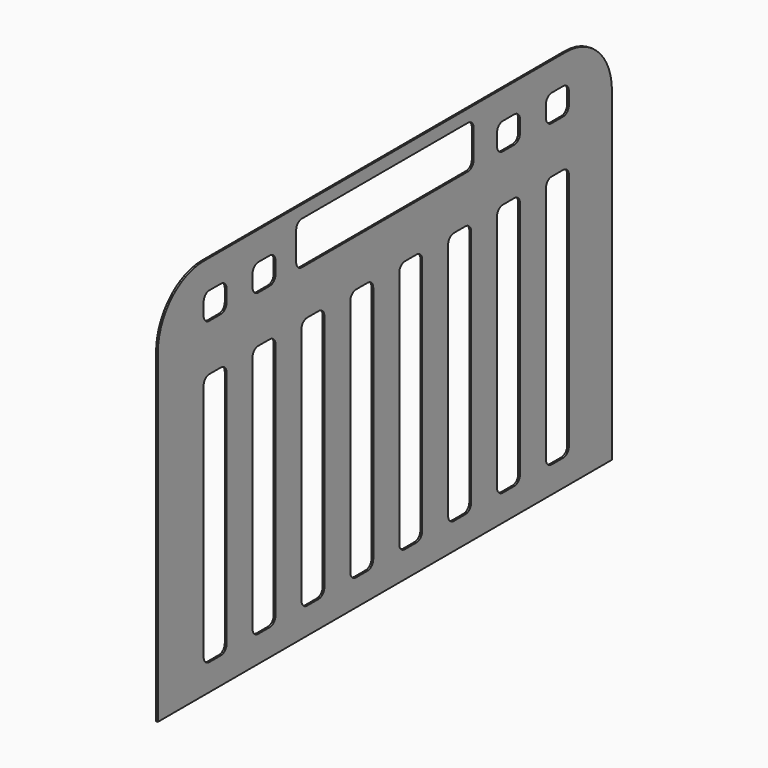
from build123d import *

# Parameters (mm, degrees)
F1_DEPTH = 3.175


with BuildPart() as f1:
    # F0 (on Right) → F1 (new body)
    with BuildSketch(Plane.YZ):
        with BuildLine():
            ThreePointArc((-419.804555, 263.773604), (-491.646604, 234.015653), (-521.404555, 162.173604))
            Line((-521.404555, 162.173604), (-521.404555, -414.946396))
            Line((-521.404555, -414.946396), (485.999445, -414.946396))
            Line((485.999445, -414.946396), (485.999445, 162.173604))
            ThreePointArc((485.999445, 162.173604), (456.241494, 234.015653), (384.399445, 263.773604))
            Line((384.399445, 263.773604), (-17.702555, 263.773604))
            Line((-17.702555, 263.773604), (-419.804555, 263.773604))
        make_face()
        with BuildLine():
            ThreePointArc((-419.804548, 69.353524), (-416.084804, 78.33378), (-407.104548, 82.053524))
            Line((-407.104548, 82.053524), (-381.704548, 82.053524))
            ThreePointArc((-381.704548, 82.053524), (-372.724292, 78.33378), (-369.004548, 69.353524))
            Line((-369.004548, 69.353524), (-369.004548, -355.246476))
            ThreePointArc((-369.004548, -355.246476), (-372.724292, -364.226732), (-381.704548, -367.946476))
            Line((-381.704548, -367.946476), (-407.104548, -367.946476))
            ThreePointArc((-407.104548, -367.946476), (-416.084804, -364.226732), (-419.804548, -355.246476))
            Line((-419.804548, -355.246476), (-419.804548, 69.353524))
        make_face(mode=Mode.SUBTRACT)
        with BuildLine():
            Line((-311.304543, -355.246476), (-311.304543, 69.353524))
            ThreePointArc((-311.304543, 69.353524), (-307.584799, 78.33378), (-298.604543, 82.053524))
            Line((-298.604543, 82.053524), (-273.204543, 82.053524))
            ThreePointArc((-273.204543, 82.053524), (-264.224287, 78.33378), (-260.504543, 69.353524))
            Line((-260.504543, 69.353524), (-260.504543, -355.246476))
            ThreePointArc((-260.504543, -355.246476), (-264.224287, -364.226732), (-273.204543, -367.946476))
            Line((-273.204543, -367.946476), (-298.604543, -367.946476))
            ThreePointArc((-298.604543, -367.946476), (-307.584799, -364.226732), (-311.304543, -355.246476))
        make_face(mode=Mode.SUBTRACT)
        with BuildLine():
            Line((-202.804543, -355.246476), (-202.804543, 69.353524))
            ThreePointArc((-202.804543, 69.353524), (-199.084799, 78.33378), (-190.104543, 82.053524))
            Line((-190.104543, 82.053524), (-164.704543, 82.053524))
            ThreePointArc((-164.704543, 82.053524), (-155.724287, 78.33378), (-152.004543, 69.353524))
            Line((-152.004543, 69.353524), (-152.004543, -355.246476))
            ThreePointArc((-152.004543, -355.246476), (-155.724287, -364.226732), (-164.704543, -367.946476))
            Line((-164.704543, -367.946476), (-190.104543, -367.946476))
            ThreePointArc((-190.104543, -367.946476), (-199.084799, -364.226732), (-202.804543, -355.246476))
        make_face(mode=Mode.SUBTRACT)
        with BuildLine():
            Line((-94.304543, -355.246476), (-94.304543, 69.353524))
            ThreePointArc((-94.304543, 69.353524), (-90.584799, 78.33378), (-81.604543, 82.053524))
            Line((-81.604543, 82.053524), (-56.204543, 82.053524))
            ThreePointArc((-56.204543, 82.053524), (-47.224287, 78.33378), (-43.504543, 69.353524))
            Line((-43.504543, 69.353524), (-43.504543, -355.246476))
            ThreePointArc((-43.504543, -355.246476), (-47.224287, -364.226732), (-56.204543, -367.946476))
            Line((-56.204543, -367.946476), (-81.604543, -367.946476))
            ThreePointArc((-81.604543, -367.946476), (-90.584799, -364.226732), (-94.304543, -355.246476))
        make_face(mode=Mode.SUBTRACT)
        with BuildLine():
            Line((14.195457, -355.246476), (14.195457, 69.353524))
            ThreePointArc((14.195457, 69.353524), (17.915201, 78.33378), (26.895457, 82.053524))
            Line((26.895457, 82.053524), (52.295457, 82.053524))
            ThreePointArc((52.295457, 82.053524), (61.275713, 78.33378), (64.995457, 69.353524))
            Line((64.995457, 69.353524), (64.995457, -355.246476))
            ThreePointArc((64.995457, -355.246476), (61.275713, -364.226732), (52.295457, -367.946476))
            Line((52.295457, -367.946476), (26.895457, -367.946476))
            ThreePointArc((26.895457, -367.946476), (17.915201, -364.226732), (14.195457, -355.246476))
        make_face(mode=Mode.SUBTRACT)
        with BuildLine():
            Line((122.695457, -355.246476), (122.695457, 69.353524))
            ThreePointArc((122.695457, 69.353524), (126.415201, 78.33378), (135.395457, 82.053524))
            Line((135.395457, 82.053524), (160.795457, 82.053524))
            ThreePointArc((160.795457, 82.053524), (169.775713, 78.33378), (173.495457, 69.353524))
            Line((173.495457, 69.353524), (173.495457, -355.246476))
            ThreePointArc((173.495457, -355.246476), (169.775713, -364.226732), (160.795457, -367.946476))
            Line((160.795457, -367.946476), (135.395457, -367.946476))
            ThreePointArc((135.395457, -367.946476), (126.415201, -364.226732), (122.695457, -355.246476))
        make_face(mode=Mode.SUBTRACT)
        with BuildLine():
            Line((231.195457, -355.246476), (231.195457, 69.353524))
            ThreePointArc((231.195457, 69.353524), (234.915201, 78.33378), (243.895457, 82.053524))
            Line((243.895457, 82.053524), (269.295457, 82.053524))
            ThreePointArc((269.295457, 82.053524), (278.275713, 78.33378), (281.995457, 69.353524))
            Line((281.995457, 69.353524), (281.995457, -355.246476))
            ThreePointArc((281.995457, -355.246476), (278.275713, -364.226732), (269.295457, -367.946476))
            Line((269.295457, -367.946476), (243.895457, -367.946476))
            ThreePointArc((243.895457, -367.946476), (234.915201, -364.226732), (231.195457, -355.246476))
        make_face(mode=Mode.SUBTRACT)
        with BuildLine():
            Line((339.695457, -355.246476), (339.695457, 69.353524))
            ThreePointArc((339.695457, 69.353524), (343.415201, 78.33378), (352.395457, 82.053524))
            Line((352.395457, 82.053524), (377.795457, 82.053524))
            ThreePointArc((377.795457, 82.053524), (386.775713, 78.33378), (390.495457, 69.353524))
            Line((390.495457, 69.353524), (390.495457, -355.246476))
            ThreePointArc((390.495457, -355.246476), (386.775713, -364.226732), (377.795457, -367.946476))
            Line((377.795457, -367.946476), (352.395457, -367.946476))
            ThreePointArc((352.395457, -367.946476), (343.415201, -364.226732), (339.695457, -355.246476))
        make_face(mode=Mode.SUBTRACT)
        with BuildLine():
            ThreePointArc((-419.804553, 200.273602), (-416.08481, 209.253859), (-407.104553, 212.973604))
            Line((-407.104553, 212.973604), (-381.704548, 212.973604))
            ThreePointArc((-381.704548, 212.973604), (-372.724292, 209.25386), (-369.004548, 200.273604))
            Line((-369.004548, 200.273604), (-369.004548, 178.048524))
            ThreePointArc((-369.004548, 178.048524), (-372.724292, 169.068268), (-381.704548, 165.348524))
            Line((-381.704548, 165.348524), (-407.10455, 165.348524))
            ThreePointArc((-407.10455, 165.348524), (-416.084805, 169.068267), (-419.80455, 178.048522))
            Line((-419.80455, 178.048522), (-419.804553, 200.273602))
        make_face(mode=Mode.SUBTRACT)
        with BuildLine():
            ThreePointArc((-298.604543, 165.348524), (-307.584799, 169.068268), (-311.304543, 178.048524))
            Line((-311.304543, 178.048524), (-311.304543, 200.273604))
            ThreePointArc((-311.304543, 200.273604), (-307.584799, 209.25386), (-298.604543, 212.973604))
            Line((-298.604543, 212.973604), (-273.204543, 212.973604))
            ThreePointArc((-273.204543, 212.973604), (-264.224287, 209.25386), (-260.504543, 200.273604))
            Line((-260.504543, 200.273604), (-260.504543, 178.048524))
            ThreePointArc((-260.504543, 178.048524), (-264.224287, 169.068268), (-273.204543, 165.348524))
            Line((-273.204543, 165.348524), (-298.604543, 165.348524))
        make_face(mode=Mode.SUBTRACT)
        with BuildLine():
            Line((-201.827555, 241.548524), (-17.702555, 241.548524))
            Line((-17.702555, 241.548524), (166.422445, 241.548524))
            ThreePointArc((166.422445, 241.548524), (175.402701, 237.82878), (179.122445, 228.848524))
            Line((179.122445, 228.848524), (179.122445, 178.048524))
            ThreePointArc((179.122445, 178.048524), (175.402701, 169.068268), (166.422445, 165.348524))
            Line((166.422445, 165.348524), (-201.827555, 165.348524))
            ThreePointArc((-201.827555, 165.348524), (-210.807811, 169.068268), (-214.527555, 178.048524))
            Line((-214.527555, 178.048524), (-214.527555, 228.848524))
            ThreePointArc((-214.527555, 228.848524), (-210.807811, 237.82878), (-201.827555, 241.548524))
        make_face(mode=Mode.SUBTRACT)
        with BuildLine():
            ThreePointArc((243.895457, 165.348524), (234.915201, 169.068268), (231.195457, 178.048524))
            Line((231.195457, 178.048524), (231.195457, 200.273604))
            ThreePointArc((231.195457, 200.273604), (234.915201, 209.25386), (243.895457, 212.973604))
            Line((243.895457, 212.973604), (269.295457, 212.973604))
            ThreePointArc((269.295457, 212.973604), (278.275713, 209.25386), (281.995457, 200.273604))
            Line((281.995457, 200.273604), (281.995457, 178.048524))
            ThreePointArc((281.995457, 178.048524), (278.275713, 169.068268), (269.295457, 165.348524))
            Line((269.295457, 165.348524), (243.895457, 165.348524))
        make_face(mode=Mode.SUBTRACT)
        with BuildLine():
            ThreePointArc((352.395457, 165.348524), (343.415201, 169.068268), (339.695457, 178.048524))
            Line((339.695457, 178.048524), (339.695457, 200.273604))
            ThreePointArc((339.695457, 200.273604), (343.415201, 209.25386), (352.395457, 212.973604))
            Line((352.395457, 212.973604), (377.795457, 212.973604))
            ThreePointArc((377.795457, 212.973604), (386.775713, 209.25386), (390.495457, 200.273604))
            Line((390.495457, 200.273604), (390.495457, 178.048524))
            ThreePointArc((390.495457, 178.048524), (386.775713, 169.068268), (377.795457, 165.348524))
            Line((377.795457, 165.348524), (352.395457, 165.348524))
        make_face(mode=Mode.SUBTRACT)
    extrude(amount=F1_DEPTH)


solid = f1.part
